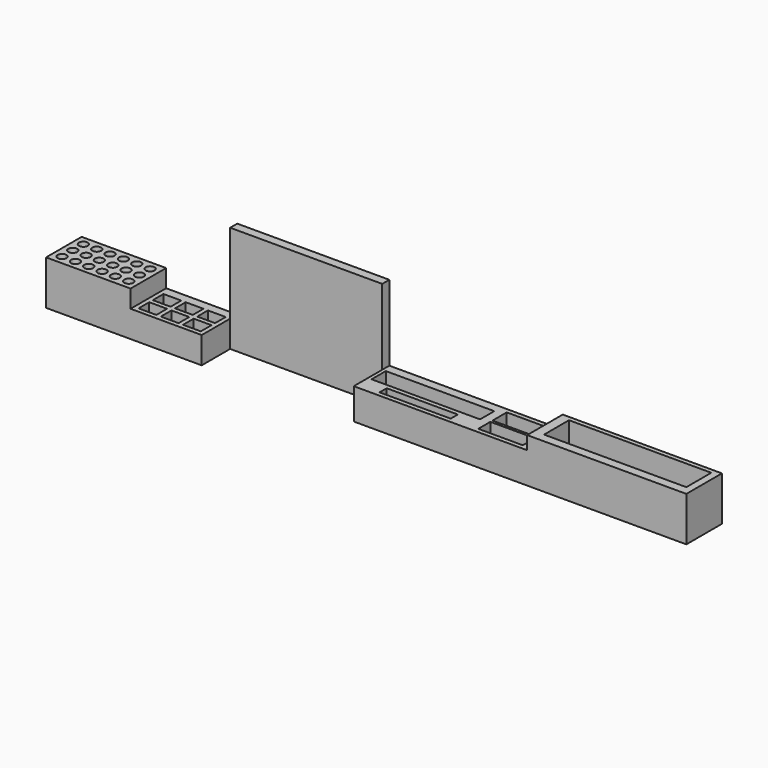
from build123d import *

# Parameters (mm, degrees)
F0_W      = 914.4
F0_H      = 152.4
F1_DEPTH  = 63.5
F2_R      = 6.35
F2_W      = 25.4
F2_H      = 19.05
F2_W_2    = 154.94
F2_H_2    = 25.4
F2_W_3    = 101.6
F2_H_3    = 12.7
F2_W_4    = 63.5
F2_W_5    = 203.2
F2_H_4    = 44.45
F2_H_5    = 21.59
F3_DEPTH  = 139.7
F4_W      = 120.65
F4_H      = 63.5
F5_DEPTH  = 88.9
F6_W      = 101.6
F6_H      = 63.5
F7_DEPTH  = 114.3
F8_W      = 247.65
F8_H      = 63.5
F9_DEPTH  = 107.95
F10_W     = 227.33
F10_H     = 63.5
F11_DEPTH = 88.9
F12_W     = 217.17
F12_H     = 50.8
F13_DEPTH = 152.4


with BuildPart() as f1:
    # F0 (on Front) → F1 (new body)
    with BuildSketch(Plane.XZ):
        Rectangle(F0_W, F0_H)
    extrude(amount=F1_DEPTH)

    # F2 (on face) → F3 (cut)
    with BuildSketch(Plane.XY.offset(76.2)):
        with Locations((-444.5, -12.7)):
            Circle(F2_R)
        with Locations((-425.45, -12.7)):
            Circle(F2_R)
        with Locations((-406.4, -12.7)):
            Circle(F2_R)
        with Locations((-387.35, -12.7)):
            Circle(F2_R)
        with Locations((-368.3, -12.7)):
            Circle(F2_R)
        with Locations((-349.25, -12.7)):
            Circle(F2_R)
        with Locations((-444.5, -31.75)):
            Circle(F2_R)
        with Locations((-425.45, -31.75)):
            Circle(F2_R)
        with Locations((-406.4, -31.75)):
            Circle(F2_R)
        with Locations((-387.35, -31.75)):
            Circle(F2_R)
        with Locations((-368.3, -31.75)):
            Circle(F2_R)
        with Locations((-349.25, -31.75)):
            Circle(F2_R)
        with Locations((-444.5, -50.8)):
            Circle(F2_R)
        with Locations((-425.45, -50.8)):
            Circle(F2_R)
        with Locations((-406.4, -50.8)):
            Circle(F2_R)
        with Locations((-387.35, -50.8)):
            Circle(F2_R)
        with Locations((-368.3, -50.8)):
            Circle(F2_R)
        with Locations((-349.25, -50.8)):
            Circle(F2_R)
        with Locations((-317.5, -47.625)):
            Rectangle(F2_W, F2_H)
        with Locations((-317.5, -22.225)):
            Rectangle(F2_W, F2_H)
        with Locations((-285.75, -22.225)):
            Rectangle(F2_W, F2_H)
        with Locations((-285.75, -47.625)):
            Rectangle(F2_W, F2_H)
        with Locations((-254, -22.225)):
            Rectangle(F2_W, F2_H)
        with Locations((-254, -47.625)):
            Rectangle(F2_W, F2_H)
        with Locations((64.77, -25.4)):
            Rectangle(F2_W_2, F2_H_2)
        with Locations((64.77, -50.8)):
            Rectangle(F2_W_3, F2_H_3)
        with Locations((186.69, -19.05)):
            Rectangle(F2_W_4, F2_H_2)
        with Locations((345.44, -28.575)):
            Rectangle(F2_W_5, F2_H_4)
        with Locations((186.69, -46.355)):
            Rectangle(F2_W_4, F2_H_5)
    extrude(amount=-F3_DEPTH, mode=Mode.SUBTRACT)

    # F4 (on face) → F5 (cut)
    with BuildSketch(Plane.XY.offset(76.2)):
        with Locations((-396.875, -31.75)):
            Rectangle(F4_W, F4_H)
    extrude(amount=-F5_DEPTH, mode=Mode.SUBTRACT)

    # F6 (on face) → F7 (cut)
    with BuildSketch(Plane.XY.offset(76.2)):
        with Locations((-285.75, -31.75)):
            Rectangle(F6_W, F6_H)
    extrude(amount=-F7_DEPTH, mode=Mode.SUBTRACT)

    # F8 (on face) → F9 (cut)
    with BuildSketch(Plane.XY.offset(76.2)):
        with Locations((106.045, -31.75)):
            Rectangle(F8_W, F8_H)
    extrude(amount=-F9_DEPTH, mode=Mode.SUBTRACT)

    # F10 (on face) → F11 (cut)
    with BuildSketch(Plane.XY.offset(76.2)):
        with Locations((343.535, -31.75)):
            Rectangle(F10_W, F10_H)
    extrude(amount=-F11_DEPTH, mode=Mode.SUBTRACT)

    # F12 (on face) → F13 (cut)
    with BuildSketch(Plane.XY.offset(76.2)):
        with Locations((-126.365, -38.1)):
            Rectangle(F12_W, F12_H)
    extrude(amount=-F13_DEPTH, mode=Mode.SUBTRACT)


solid = f1.part
